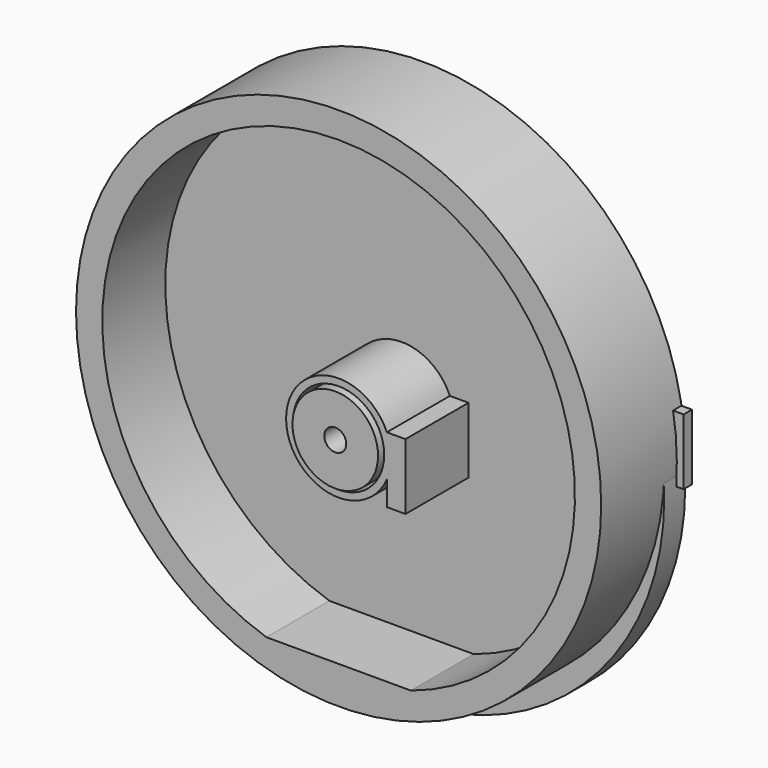
from build123d import *

# Parameters (mm, degrees)
F0_R      = 31.75
F0_R_2    = 28.575
F1_DEPTH  = 12.7
F2_R      = 31.75
F3_DEPTH  = 3.175
F4_R      = 31.75
F5_DEPTH  = 3.175
F6_W      = 21.4458070695
F6_H      = 1.7393454909
F7_DEPTH  = 12.7
F8_R      = 5.5145784087
F9_DEPTH  = 12.7
F10_DEPTH = 1.27
F8_R_2    = 5.1739063848
F8_R_3    = 1.3298288243
F11_DEPTH = 13.208


with BuildPart() as f1:
    # F0 (on Front) → F1 (new body)
    with BuildSketch(Plane.XZ):
        with Locations((0, 3.1637951601)):
            Circle(F0_R)
        with Locations((0, 3.1637951601)):
            Circle(F0_R_2, mode=Mode.SUBTRACT)
    extrude(amount=F1_DEPTH)

    # F6 (on Front) → F7 (join)
    with BuildSketch(Plane.XZ):
        with Locations((0, -24.9152500182)):
            Rectangle(F6_W, F6_H)
    extrude(amount=F7_DEPTH)


with BuildPart() as f3:
    # F2 (on Front) → F3 (new body)
    with BuildSketch(Plane.XZ):
        Circle(F2_R)
    extrude(amount=F3_DEPTH)


with BuildPart() as f5:
    # F4 (on Front) → F5 (new body)
    with BuildSketch(Plane.XZ):
        Circle(F4_R)
    extrude(amount=F5_DEPTH)


with BuildPart() as f9:
    # F8 (on Front) → F9 (new body)
    with BuildSketch(Plane.XZ):
        with BuildLine():
            Line((5.8347795857, -2.5055632473), (5.8347795857, 2.5055632473))
            ThreePointArc((5.8347795857, 2.5055632473), (-6.35, 0), (5.8347795857, -2.5055632473))
        make_face()
        Circle(F8_R, mode=Mode.SUBTRACT)
        with BuildLine():
            ThreePointArc((5.8347795857, 2.5055632473), (6.2198613477, 1.2789936729), (6.35, 0))
            ThreePointArc((6.35, 0), (6.2198613477, -1.2789936729), (5.8347795857, -2.5055632473))
            Line((5.8347795857, -2.5055632473), (5.8347795857, -5.4628530052))
            Line((5.8347795857, -5.4628530052), (8.0852303654, -5.4628530052))
            Line((8.0852303654, -5.4628530052), (8.0852303654, 2.5055632473))
            Line((8.0852303654, 2.5055632473), (5.8347795857, 2.5055632473))
        make_face()
        with BuildLine():
            ThreePointArc((5.8347795857, -2.5055632473), (6.2198613477, -1.2789936729), (6.35, 0))
            ThreePointArc((6.35, 0), (6.2198613477, 1.2789936729), (5.8347795857, 2.5055632473))
            Line((5.8347795857, 2.5055632473), (5.8347795857, -2.5055632473))
        make_face()
    extrude(amount=F9_DEPTH)


with BuildPart() as f10:
    # F8 (on Front) → F10 (new body)
    with BuildSketch(Plane.XZ):
        with BuildLine():
            Line((30.3154438734, 2.6735466489), (30.3154438734, 7.2907341129))
            ThreePointArc((30.3154438734, 7.2907341129), (18.0499646045, 4.9821403809), (30.3154438734, 2.6735466489))
        make_face()
        with BuildLine():
            ThreePointArc((30.3154438734, 2.6735466489), (30.6403890035, 3.8075752182), (30.7499646045, 4.9821403809))
            ThreePointArc((30.7499646045, 4.9821403809), (30.6403890035, 6.1567055435), (30.3154438734, 7.2907341129))
            Line((30.3154438734, 7.2907341129), (30.3154438734, 2.6735466489))
        make_face()
        with BuildLine():
            ThreePointArc((30.3154438734, 7.2907341129), (30.6403890035, 6.1567055435), (30.7499646045, 4.9821403809))
            ThreePointArc((30.7499646045, 4.9821403809), (30.6403890035, 3.8075752182), (30.3154438734, 2.6735466489))
            Line((30.3154438734, 2.6735466489), (30.3154438734, 0.4826000077))
            Line((30.3154438734, 0.4826000077), (32.5658946531, 0.4826000077))
            Line((32.5658946531, 0.4826000077), (32.5658946531, 8.4510162601))
            Line((32.5658946531, 8.4510162601), (30.3154438734, 8.4510162601))
            Line((30.3154438734, 8.4510162601), (30.3154438734, 7.2907341129))
        make_face()
    extrude(amount=F10_DEPTH)


with BuildPart() as f11:
    # F8 (on Front) → F11 (new body)
    with BuildSketch(Plane.XZ):
        Circle(F8_R_2)
        Circle(F8_R_3, mode=Mode.SUBTRACT)
    extrude(amount=F11_DEPTH)


solid = Compound([f1.part, f3.part, f5.part, f9.part, f10.part, f11.part])
